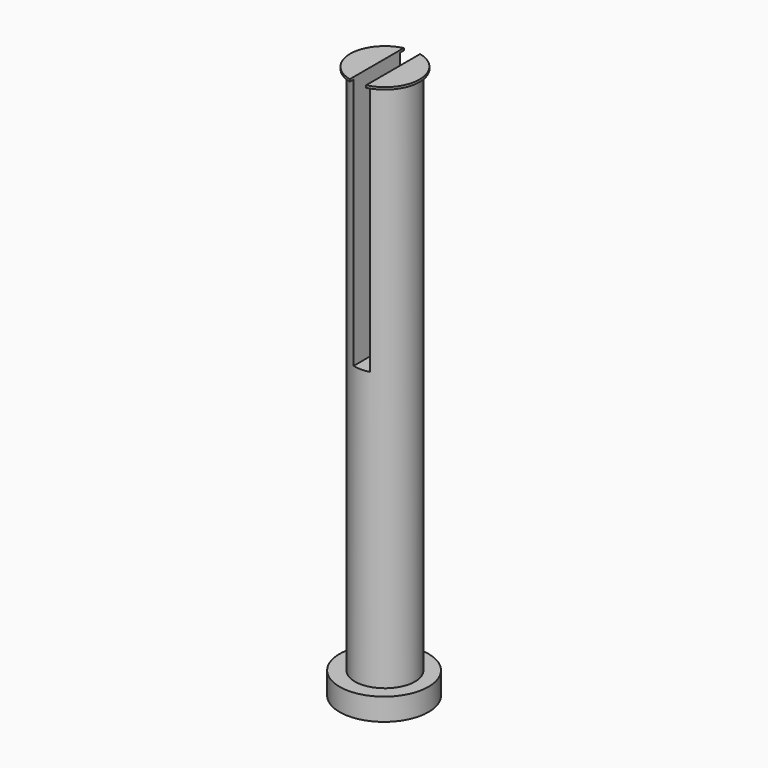
from build123d import *

# Parameters (mm, degrees)
F0_R     = 2
F1_DEPTH = 1
F2_R     = 1.35
F3_DEPTH = 24.892
F4_R     = 1.560852
F4_R_2   = 1.35
F5_DEPTH = 0.1016
F7_DEPTH = 11.43


with BuildPart() as f1:
    # F0 (on Top) → F1 (new body)
    with BuildSketch(Plane.XY):
        with Locations((-9.958773, 15.992578)):
            Circle(F0_R)
    extrude(amount=F1_DEPTH)

    # F2 (on face) → F3 (join)
    with BuildSketch(Plane.XY):
        with Locations((-9.925794, 16.001273)):
            Circle(F2_R)
    extrude(amount=F3_DEPTH)

    # F4 (on face) → F5 (join)
    with BuildSketch(Plane.XY.offset(24.892)):
        with Locations((-9.925794, 16.001273)):
            Circle(F4_R)
        with Locations((-9.925794, 16.001273)):
            Circle(F4_R_2, mode=Mode.SUBTRACT)
    extrude(amount=-F5_DEPTH)

    # F6 (on face) → F7 (cut)
    with BuildSketch(Plane.XY.offset(24.892)):
        with BuildLine():
            ThreePointArc((-10.292375, 14.484079), (-9.925794, 14.440421), (-9.559213, 14.484079))
            Line((-9.559213, 14.484079), (-9.559213, 17.518467))
            ThreePointArc((-9.559213, 17.518467), (-9.925794, 17.562125), (-10.292375, 17.518467))
            Line((-10.292375, 17.518467), (-10.292375, 14.484079))
        make_face()
    extrude(amount=-F7_DEPTH, mode=Mode.SUBTRACT)


solid = f1.part
